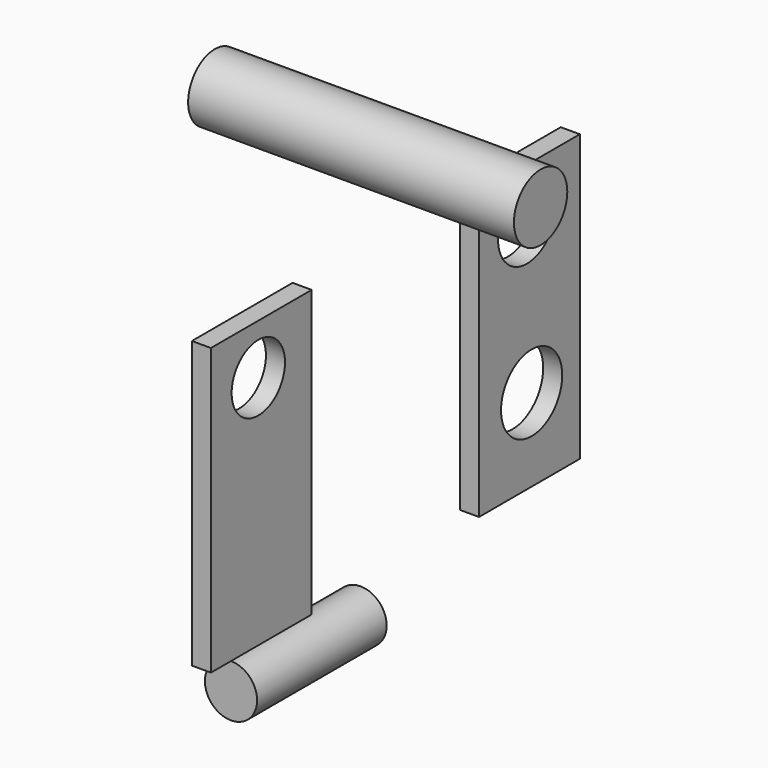
from build123d import *

# Parameters (mm, degrees)
F0_W     = 33.5788
F0_H     = 76.2
F1_DEPTH = 2.54
F0_R     = 8.89
F2_DEPTH = 43.434
F3_R     = 8.89
F3_R_2   = 9.652
F4_DEPTH = 21.59
F5_DEPTH = 12.7
F6_R     = 10.1981
F7_DEPTH = 12.7
F8_R     = 6.9589762649
F9_DEPTH = 43.18


with BuildPart() as f1:
    # F0 (on Right) → F1 (new body, symmetric)
    with BuildSketch(Plane.YZ):
        with Locations((-47.3627662474, -13.0775650084)):
            Rectangle(F0_W, F0_H)
    extrude(amount=F1_DEPTH, both=True)


with BuildPart() as f1b:
    # F0 (on Right) → F1, piece 2 (new body, symmetric)
    with BuildSketch(Plane.YZ):
        with Locations((42.0081718081, -12.8716225684)):
            Rectangle(F0_W, F0_H)
    extrude(amount=F1_DEPTH, both=True)


with BuildPart() as f2:
    # F0 (on Right) → F2 (new body, symmetric)
    with BuildSketch(Plane.YZ):
        with Locations((-5.388148129, 47.4705435336)):
            Circle(F0_R)
    extrude(amount=F2_DEPTH, both=True)


with BuildPart() as f4_tool:
    # F3 (on Right) → F4 (new body, symmetric)
    with BuildSketch(Plane.YZ):
        with Locations((-48.3599044383, 11.6359470412)):
            Circle(F3_R)
        with Locations((41.1850363016, 11.6359470412)):
            Circle(F3_R_2)
    extrude(amount=F4_DEPTH, both=True)


with BuildPart() as f1_1:
    add(f1.part)

    # F4: cut by f4_tool
    add(f4_tool.part, mode=Mode.SUBTRACT)

    # F3 (on Right) → F5 (cut, symmetric)
    with BuildSketch(Plane.YZ):
        with Locations((-48.3599044383, 11.6359470412)):
            Circle(F3_R)
        with Locations((41.1850363016, 11.6359470412)):
            Circle(F3_R_2)
    extrude(amount=F5_DEPTH, both=True, mode=Mode.SUBTRACT)


with BuildPart() as f1b_1:
    add(f1b.part)

    # F4: cut by f4_tool
    add(f4_tool.part, mode=Mode.SUBTRACT)

    # F6 (on Right) → F7 (cut, symmetric)
    with BuildSketch(Plane.YZ):
        with Locations((42.733784765, -28.935406357)):
            Circle(F6_R)
    extrude(amount=F7_DEPTH, both=True, mode=Mode.SUBTRACT)


with BuildPart() as f9:
    # F8 (on Front) → F9 (new body)
    with BuildSketch(Plane.XZ):
        with Locations((-8.8820308447, -67.667491734)):
            Circle(F8_R)
    extrude(amount=F9_DEPTH)


solid = Compound([f2.part, f1_1.part, f1b_1.part, f9.part])
